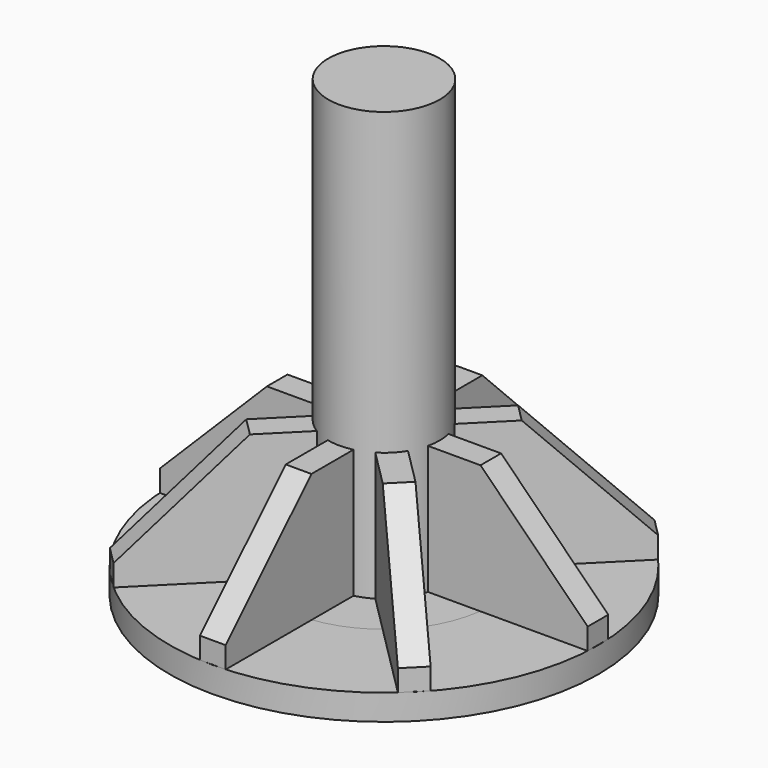
from build123d import *

# Parameters (mm, degrees)
F0_R      = 50
F1_DEPTH  = 6
F2_R      = 25
F3_DEPTH  = 6
F4_R      = 25
F5_DEPTH  = 6
F6_R      = 13
F7_DEPTH  = 100
F8_W      = 46.9099188539
F8_H      = 6
F8_W_2    = 6
F8_H_2    = 46.9099188539
F9_DEPTH  = 30
F10_SIZE  = 25
F12_ANGLE = 45


with BuildPart() as f1:
    # F0 (on Top) → F1 (new body)
    with BuildSketch(Plane.XY):
        Circle(F0_R)
    extrude(amount=-F1_DEPTH)

    # F2 (on Top) → F3 (cut)
    with BuildSketch(Plane.XY):
        Circle(F2_R)
    extrude(amount=-F3_DEPTH, mode=Mode.SUBTRACT)


with BuildPart() as f5:
    # F4 (on Top) → F5 (new body)
    with BuildSketch(Plane.XY):
        Circle(F4_R)
    extrude(amount=-F5_DEPTH)


with BuildPart() as f7:
    # F6 (on Top) → F7 (new body)
    with BuildSketch(Plane.XY):
        Circle(F6_R)
    extrude(amount=F7_DEPTH)


with BuildPart() as f9:
    # F8 (on Top) → F9 (new body)
    with BuildSketch(Plane.XY):
        with Locations((-26.4549594269, 0)):
            Rectangle(F8_W, F8_H)
        with Locations((0, 26.4549594269)):
            Rectangle(F8_W_2, F8_H_2)
        Rectangle(F8_W_2, F8_H)
        with Locations((26.4549594269, 0)):
            Rectangle(F8_W, F8_H)
        with Locations((0, -26.4549594269)):
            Rectangle(F8_W_2, F8_H_2)
    extrude(amount=F9_DEPTH)

    # F10
    f10_edges = [f9.edges().sort_by_distance(p)[0] for p in [
        (-49.909919, 0, 30),
        (0, -49.909919, 30),
        (49.909919, 0, 30),
        (0, 49.909919, 30),
    ]]
    chamfer(f10_edges, length=F10_SIZE)


with BuildPart() as f12_1:
    # F12: copy of F9
    add(f9.part.rotate(Axis((0, 0, -23.692689836), (0, 0, -1)), F12_ANGLE))


solid = Compound([f1.part, f5.part, f7.part, f9.part, f12_1.part])
